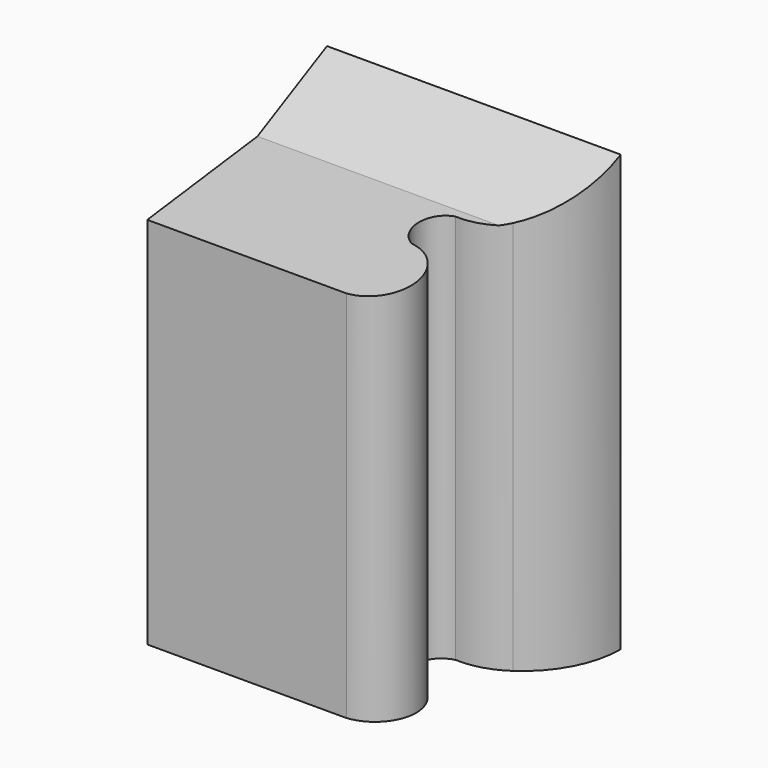
from build123d import *

# Parameters (mm, degrees)
F0_W     = 85
F0_H     = 126
F1_DEPTH = 65
F3_DEPTH = 200
F5_DEPTH = 100


with BuildPart() as f1:
    # F0 (on Front) → F1 (new body)
    with BuildSketch(Plane.XZ):
        Rectangle(F0_W, F0_H)
    extrude(amount=F1_DEPTH)

    # F2 (on face) → F3 (cut)
    with BuildSketch(Plane.XY.offset(63)):
        with BuildLine():
            ThreePointArc((42.5, 0), (39.220219, -13.260584), (30.137157, -23.463428))
            ThreePointArc((30.137157, -23.463428), (23.716021, -26.537316), (16.649198, -27.397415))
            ThreePointArc((16.649198, -27.397415), (10.926292, -33.802126), (15.103702, -41.306872))
            ThreePointArc((15.103702, -41.306872), (25.834637, -53.153436), (15.103702, -65))
            Line((15.103702, -65), (42.5, -65))
            Line((42.5, -65), (42.5, 0))
        make_face()
    extrude(amount=-F3_DEPTH, mode=Mode.SUBTRACT)

    # F4 (on face) → F5 (cut)
    with BuildSketch(Plane(origin=(-42.5, 0, 0), x_dir=(0, -1, 0), z_dir=(-1, 0, 0))):
        Polygon((65, 63), (0, 63), (25.149422, 50.228592), (65, 45.170609), align=None)
    extrude(amount=-F5_DEPTH, mode=Mode.SUBTRACT)


solid = f1.part
